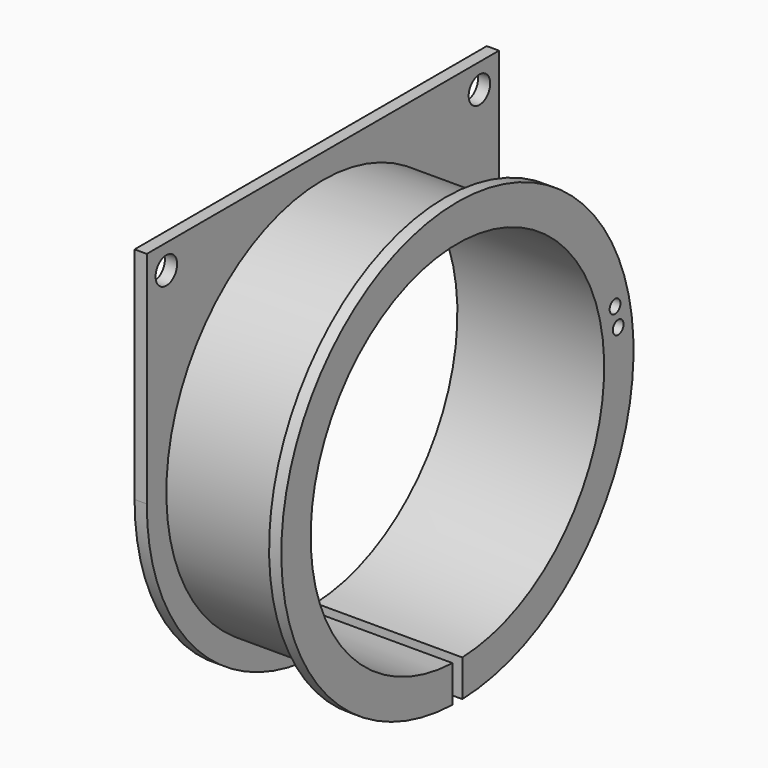
from build123d import *

# Parameters (mm, degrees)
CYLINDER079_R     = 0.55
CYLINDER079_DEPTH = 12
CYLINDER078_R     = 0.55
CYLINDER078_DEPTH = 12
CYLINDER073_R     = 15
CYLINDER073_DEPTH = 12
CYLINDER072_R     = 1.1
CYLINDER072_DEPTH = 1
CYLINDER071_R     = 1.1
CYLINDER071_DEPTH = 1
BOX039_W          = 1
BOX039_H          = 36
BOX039_DEPTH      = 18
CYLINDER075_R     = 0.55
CYLINDER075_DEPTH = 12
CYLINDER074_R     = 0.55
CYLINDER074_DEPTH = 12
BOX038_W          = 12
BOX038_H          = 1
BOX038_DEPTH      = 5
CYLINDER069_R     = 16
CYLINDER069_DEPTH = 10
CYLINDER068_R     = 18
CYLINDER068_DEPTH = 10
CYLINDER067_R     = 15
CYLINDER067_DEPTH = 12
CYLINDER066_R     = 18
CYLINDER066_DEPTH = 12


with BuildPart() as zylinder076:
    # Cylinder079 → Cylinder079 (new body)
    with BuildSketch(Plane(origin=(-17, 16.11, 3.93), x_dir=(0, 0, -1), z_dir=(1, 0, 0))):
        Circle(CYLINDER079_R)
    extrude(amount=CYLINDER079_DEPTH)


with BuildPart() as fusion037:
    # Cylinder078 → Cylinder078 (new body)
    with BuildSketch(Plane(origin=(-17, 16.43, 2.3), x_dir=(0, 0, -1), z_dir=(1, 0, 0))):
        Circle(CYLINDER078_R)
    extrude(amount=CYLINDER078_DEPTH)

    # Fusion037: union Zylinder076
    add(zylinder076.part)


with BuildPart() as zylinder070:
    # Cylinder073 → Cylinder073 (new body)
    with BuildSketch(Plane(origin=(-17, 0, 0), x_dir=(0, 0, -1), z_dir=(1, 0, 0))):
        Circle(CYLINDER073_R)
    extrude(amount=CYLINDER073_DEPTH)


with BuildPart() as zylinder069:
    # Cylinder072 → Cylinder072 (new body)
    with BuildSketch(Plane(origin=(-17, 16, 16), x_dir=(0, 0, -1), z_dir=(1, 0, 0))):
        Circle(CYLINDER072_R)
    extrude(amount=CYLINDER072_DEPTH)


with BuildPart() as fusion034:
    # Cylinder071 → Cylinder071 (new body)
    with BuildSketch(Plane(origin=(-17, -16, 16), x_dir=(0, 0, -1), z_dir=(1, 0, 0))):
        Circle(CYLINDER071_R)
    extrude(amount=CYLINDER071_DEPTH)

    # Fusion034: union Zylinder069
    add(zylinder069.part)


with BuildPart() as cut059:
    # Box039 → Box039 (new body)
    with BuildSketch(Plane(origin=(-17, -18, 0), x_dir=(1, 0, 0), z_dir=(0, 0, 1))):
        with Locations((0.5, 18)):
            Rectangle(BOX039_W, BOX039_H)
    extrude(amount=BOX039_DEPTH)

    # Cut055: cut Fusion034
    add(fusion034.part, mode=Mode.SUBTRACT)

    # Cut056: cut Zylinder070
    add(zylinder070.part, mode=Mode.SUBTRACT)

    # Cut059: cut Fusion037
    add(fusion037.part, mode=Mode.SUBTRACT)


with BuildPart() as zylinder072:
    # Cylinder075 → Cylinder075 (new body)
    with BuildSketch(Plane(origin=(-17, 16.11, 3.93), x_dir=(0, 0, -1), z_dir=(1, 0, 0))):
        Circle(CYLINDER075_R)
    extrude(amount=CYLINDER075_DEPTH)


with BuildPart() as fusion035:
    # Cylinder074 → Cylinder074 (new body)
    with BuildSketch(Plane(origin=(-17, 16.43, 2.3), x_dir=(0, 0, -1), z_dir=(1, 0, 0))):
        Circle(CYLINDER074_R)
    extrude(amount=CYLINDER074_DEPTH)

    # Fusion035: union Zylinder072
    add(zylinder072.part)


with BuildPart() as obj1:
    # Box038 → Box038 (new body)
    with BuildSketch(Plane(origin=(-17, -0.5, -19), x_dir=(1, 0, 0), z_dir=(0, 0, 1))):
        with Locations((6, 0.5)):
            Rectangle(BOX038_W, BOX038_H)
    extrude(amount=BOX038_DEPTH)


with BuildPart() as zylinder066:
    # Cylinder069 → Cylinder069 (new body)
    with BuildSketch(Plane(origin=(0, 0, 0), x_dir=(0, 0, -1), z_dir=(1, 0, 0))):
        Circle(CYLINDER069_R)
    extrude(amount=CYLINDER069_DEPTH)


with BuildPart() as cut050:
    # Cylinder068 → Cylinder068 (new body)
    with BuildSketch(Plane(origin=(0, 0, 0), x_dir=(0, 0, -1), z_dir=(1, 0, 0))):
        Circle(CYLINDER068_R)
    extrude(amount=CYLINDER068_DEPTH)

    # Cut050: cut Zylinder066
    add(zylinder066.part, mode=Mode.SUBTRACT)


with BuildPart() as cut050_1:
    # Cut050 placement: moved
    add(cut050.part.moved(Location((-16, 0, 0))))


with BuildPart() as zylinder064:
    # Cylinder067 → Cylinder067 (new body)
    with BuildSketch(Plane(origin=(0, 0, 0), x_dir=(0, 0, -1), z_dir=(1, 0, 0))):
        Circle(CYLINDER067_R)
    extrude(amount=CYLINDER067_DEPTH)


with BuildPart() as fusion038:
    # Cylinder066 → Cylinder066 (new body)
    with BuildSketch(Plane(origin=(0, 0, 0), x_dir=(0, 0, -1), z_dir=(1, 0, 0))):
        Circle(CYLINDER066_R)
    extrude(amount=CYLINDER066_DEPTH)

    # Cut049: cut Zylinder064
    add(zylinder064.part, mode=Mode.SUBTRACT)


with BuildPart() as fusion038_1:
    # Cut049 placement: moved
    add(fusion038.part.moved(Location((-17, 0, 0))))

    # Cut051: cut Cut050
    add(cut050_1.part, mode=Mode.SUBTRACT)

    # Cut054: cut obj1
    add(obj1.part, mode=Mode.SUBTRACT)

    # Cut057: cut Fusion035
    add(fusion035.part, mode=Mode.SUBTRACT)

    # Fusion038: union Cut059
    add(cut059.part)


solid = fusion038_1.part
